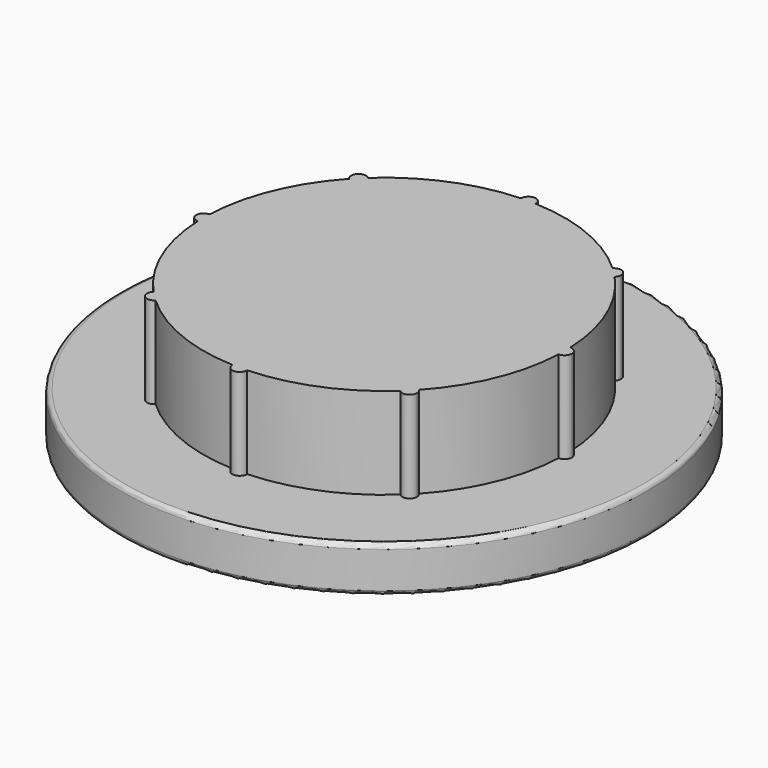
from build123d import *

# Parameters (mm, degrees)
F0_R     = 5.7752276128
F1_DEPTH = 1
F2_DEPTH = 2
F3_R     = 0.1


with BuildPart() as f1:
    # F0 (on Top) → F1 (new body)
    with BuildSketch(Plane.XY):
        Circle(F0_R)
        with BuildLine():
            ThreePointArc((2.9033493644, 2.6770525323), (3.6485695105, 1.5112869745), (3.9459400229, 0.1600160246))
            ThreePointArc((3.9459400229, 0.1600160246), (4.061202336, 0.114312532), (4.1092320673, 0))
            ThreePointArc((4.1092320673, 0), (4.061202336, -0.114312532), (3.9459400229, -0.1600160246))
            ThreePointArc((3.9459400229, -0.1600160246), (3.6485695105, -1.5112869745), (2.9033493644, -2.6770525323))
            ThreePointArc((2.9033493644, -2.6770525323), (2.9397319242, -2.7297510734), (2.9525430939, -2.792494207))
            ThreePointArc((2.9525430939, -2.792494207), (2.8522409, -2.9409730906), (2.6770525323, -2.9033493644))
            ThreePointArc((2.6770525323, -2.9033493644), (1.5112869745, -3.6485695105), (0.1600160246, -3.9459400229))
            ThreePointArc((0.1600160246, -3.9459400229), (0.1600406711, -3.9475615184), (0.1600488869, -3.9491831804))
            ThreePointArc((0.1600488869, -3.9491831804), (-0.001621662, -4.1092238515), (-0.1600160246, -3.9459400229))
            ThreePointArc((-0.1600160246, -3.9459400229), (-1.5112869745, -3.6485695105), (-2.6770525323, -2.9033493644))
            ThreePointArc((-2.6770525323, -2.9033493644), (-2.9056658603, -2.9056658603), (-2.9033493644, -2.6770525323))
            ThreePointArc((-2.9033493644, -2.6770525323), (-3.6485695105, -1.5112869745), (-3.9459400229, -0.1600160246))
            ThreePointArc((-3.9459400229, -0.1600160246), (-4.1092320673, 0), (-3.9459400229, 0.1600160246))
            ThreePointArc((-3.9459400229, 0.1600160246), (-3.6485695105, 1.5112869745), (-2.9033493644, 2.6770525323))
            ThreePointArc((-2.9033493644, 2.6770525323), (-2.9056658603, 2.9056658603), (-2.6770525323, 2.9033493644))
            ThreePointArc((-2.6770525323, 2.9033493644), (-1.5112869745, 3.6485695105), (-0.1600160246, 3.9459400229))
            ThreePointArc((-0.1600160246, 3.9459400229), (-0.001621662, 4.1092238515), (0.1600488869, 3.9491831804))
            ThreePointArc((0.1600488869, 3.9491831804), (0.1600406711, 3.9475615184), (0.1600160246, 3.9459400229))
            ThreePointArc((0.1600160246, 3.9459400229), (1.5112869745, 3.6485695105), (2.6770525323, 2.9033493644))
            ThreePointArc((2.6770525323, 2.9033493644), (2.8522409, 2.9409730906), (2.9525430939, 2.792494207))
            ThreePointArc((2.9525430939, 2.792494207), (2.9397319242, 2.7297510734), (2.9033493644, 2.6770525323))
        make_face(mode=Mode.SUBTRACT)
        with BuildLine():
            ThreePointArc((3.9459400229, -0.1600160246), (3.7891342935, 0), (3.9459400229, 0.1600160246))
            ThreePointArc((3.9459400229, 0.1600160246), (3.6485695105, 1.5112869745), (2.9033493644, 2.6770525323))
            ThreePointArc((2.9033493644, 2.6770525323), (2.6793225538, 2.6793225538), (2.6770525323, 2.9033493644))
            ThreePointArc((2.6770525323, 2.9033493644), (1.5112869745, 3.6485695105), (0.1600160246, 3.9459400229))
            ThreePointArc((0.1600160246, 3.9459400229), (0, 3.7891342935), (-0.1600160246, 3.9459400229))
            ThreePointArc((-0.1600160246, 3.9459400229), (-1.5112869745, 3.6485695105), (-2.6770525323, 2.9033493644))
            ThreePointArc((-2.6770525323, 2.9033493644), (-2.6440153234, 2.8522409), (-2.6324453201, 2.792494207))
            ThreePointArc((-2.6324453201, 2.792494207), (-2.7297510734, 2.6452564898), (-2.9033493644, 2.6770525323))
            ThreePointArc((-2.9033493644, 2.6770525323), (-3.6485695105, 1.5112869745), (-3.9459400229, 0.1600160246))
            ThreePointArc((-3.9459400229, 0.1600160246), (-3.8348706484, 0.1120191556), (-3.7891342935, 0))
            ThreePointArc((-3.7891342935, 0), (-3.8348706484, -0.1120191556), (-3.9459400229, -0.1600160246))
            ThreePointArc((-3.9459400229, -0.1600160246), (-3.6485695105, -1.5112869745), (-2.9033493644, -2.6770525323))
            ThreePointArc((-2.9033493644, -2.6770525323), (-2.7297510734, -2.6452564898), (-2.6324453201, -2.792494207))
            ThreePointArc((-2.6324453201, -2.792494207), (-2.6440153234, -2.8522409), (-2.6770525323, -2.9033493644))
            ThreePointArc((-2.6770525323, -2.9033493644), (-1.5112869745, -3.6485695105), (-0.1600160246, -3.9459400229))
            ThreePointArc((-0.1600160246, -3.9459400229), (0, -3.7891342935), (0.1600160246, -3.9459400229))
            ThreePointArc((0.1600160246, -3.9459400229), (1.5112869745, -3.6485695105), (2.6770525323, -2.9033493644))
            ThreePointArc((2.6770525323, -2.9033493644), (2.6793225538, -2.6793225538), (2.9033493644, -2.6770525323))
            ThreePointArc((2.9033493644, -2.6770525323), (3.6485695105, -1.5112869745), (3.9459400229, -0.1600160246))
        make_face()
        with BuildLine():
            ThreePointArc((-3.9459400229, -0.1600160246), (-3.9491831804, 0), (-3.9459400229, 0.1600160246))
            ThreePointArc((-3.9459400229, 0.1600160246), (-4.1092320673, 0), (-3.9459400229, -0.1600160246))
        make_face()
        with BuildLine():
            ThreePointArc((-2.9033493644, -2.6770525323), (-2.9056658603, -2.9056658603), (-2.6770525323, -2.9033493644))
            ThreePointArc((-2.6770525323, -2.9033493644), (-2.792494207, -2.792494207), (-2.9033493644, -2.6770525323))
        make_face()
        with BuildLine():
            ThreePointArc((-2.9033493644, 2.6770525323), (-2.792494207, 2.792494207), (-2.6770525323, 2.9033493644))
            ThreePointArc((-2.6770525323, 2.9033493644), (-2.9056658603, 2.9056658603), (-2.9033493644, 2.6770525323))
        make_face()
        with BuildLine():
            ThreePointArc((3.9459400229, 0.1600160246), (3.9483723078, 0.0800244434), (3.9491831804, 0))
            ThreePointArc((3.9491831804, 0), (3.9483723078, -0.0800244434), (3.9459400229, -0.1600160246))
            ThreePointArc((3.9459400229, -0.1600160246), (4.061202336, -0.114312532), (4.1092320673, 0))
            ThreePointArc((4.1092320673, 0), (4.061202336, 0.114312532), (3.9459400229, 0.1600160246))
        make_face()
        with BuildLine():
            ThreePointArc((2.9525430939, -2.792494207), (2.9397319242, -2.7297510734), (2.9033493644, -2.6770525323))
            ThreePointArc((2.9033493644, -2.6770525323), (2.792494207, -2.792494207), (2.6770525323, -2.9033493644))
            ThreePointArc((2.6770525323, -2.9033493644), (2.8522409, -2.9409730906), (2.9525430939, -2.792494207))
        make_face()
        with BuildLine():
            ThreePointArc((0.1600488869, -3.9491831804), (0.1600406711, -3.9475615184), (0.1600160246, -3.9459400229))
            ThreePointArc((0.1600160246, -3.9459400229), (0, -3.9491831804), (-0.1600160246, -3.9459400229))
            ThreePointArc((-0.1600160246, -3.9459400229), (-0.001621662, -4.1092238515), (0.1600488869, -3.9491831804))
        make_face()
        with BuildLine():
            ThreePointArc((2.6770525323, 2.9033493644), (2.792494207, 2.792494207), (2.9033493644, 2.6770525323))
            ThreePointArc((2.9033493644, 2.6770525323), (2.9397319242, 2.7297510734), (2.9525430939, 2.792494207))
            ThreePointArc((2.9525430939, 2.792494207), (2.8522409, 2.9409730906), (2.6770525323, 2.9033493644))
        make_face()
        with BuildLine():
            ThreePointArc((-0.1600160246, 3.9459400229), (0, 3.9491831804), (0.1600160246, 3.9459400229))
            ThreePointArc((0.1600160246, 3.9459400229), (0.1600406711, 3.9475615184), (0.1600488869, 3.9491831804))
            ThreePointArc((0.1600488869, 3.9491831804), (-0.001621662, 4.1092238515), (-0.1600160246, 3.9459400229))
        make_face()
        with BuildLine():
            ThreePointArc((-3.7891342935, 0), (-3.8348706484, 0.1120191556), (-3.9459400229, 0.1600160246))
            ThreePointArc((-3.9459400229, 0.1600160246), (-3.9491831804, 0), (-3.9459400229, -0.1600160246))
            ThreePointArc((-3.9459400229, -0.1600160246), (-3.8348706484, -0.1120191556), (-3.7891342935, 0))
        make_face()
        with BuildLine():
            ThreePointArc((-2.9033493644, -2.6770525323), (-2.792494207, -2.792494207), (-2.6770525323, -2.9033493644))
            ThreePointArc((-2.6770525323, -2.9033493644), (-2.6440153234, -2.8522409), (-2.6324453201, -2.792494207))
            ThreePointArc((-2.6324453201, -2.792494207), (-2.7297510734, -2.6452564898), (-2.9033493644, -2.6770525323))
        make_face()
        with BuildLine():
            ThreePointArc((-2.6324453201, 2.792494207), (-2.6440153234, 2.8522409), (-2.6770525323, 2.9033493644))
            ThreePointArc((-2.6770525323, 2.9033493644), (-2.792494207, 2.792494207), (-2.9033493644, 2.6770525323))
            ThreePointArc((-2.9033493644, 2.6770525323), (-2.7297510734, 2.6452564898), (-2.6324453201, 2.792494207))
        make_face()
        with BuildLine():
            ThreePointArc((3.9459400229, -0.1600160246), (3.9483723078, -0.0800244434), (3.9491831804, 0))
            ThreePointArc((3.9491831804, 0), (3.9483723078, 0.0800244434), (3.9459400229, 0.1600160246))
            ThreePointArc((3.9459400229, 0.1600160246), (3.7891342935, 0), (3.9459400229, -0.1600160246))
        make_face()
        with BuildLine():
            ThreePointArc((2.6770525323, -2.9033493644), (2.792494207, -2.792494207), (2.9033493644, -2.6770525323))
            ThreePointArc((2.9033493644, -2.6770525323), (2.6793225538, -2.6793225538), (2.6770525323, -2.9033493644))
        make_face()
        with BuildLine():
            ThreePointArc((-0.1600160246, -3.9459400229), (0, -3.9491831804), (0.1600160246, -3.9459400229))
            ThreePointArc((0.1600160246, -3.9459400229), (0, -3.7891342935), (-0.1600160246, -3.9459400229))
        make_face()
        with BuildLine():
            ThreePointArc((2.6770525323, 2.9033493644), (2.6793225538, 2.6793225538), (2.9033493644, 2.6770525323))
            ThreePointArc((2.9033493644, 2.6770525323), (2.792494207, 2.792494207), (2.6770525323, 2.9033493644))
        make_face()
        with BuildLine():
            ThreePointArc((-0.1600160246, 3.9459400229), (0, 3.7891342935), (0.1600160246, 3.9459400229))
            ThreePointArc((0.1600160246, 3.9459400229), (0, 3.9491831804), (-0.1600160246, 3.9459400229))
        make_face()
    extrude(amount=-F1_DEPTH)

    # F0 (on Top) → F2 (join)
    with BuildSketch(Plane.XY):
        with BuildLine():
            ThreePointArc((3.9459400229, -0.1600160246), (3.7891342935, 0), (3.9459400229, 0.1600160246))
            ThreePointArc((3.9459400229, 0.1600160246), (3.6485695105, 1.5112869745), (2.9033493644, 2.6770525323))
            ThreePointArc((2.9033493644, 2.6770525323), (2.6793225538, 2.6793225538), (2.6770525323, 2.9033493644))
            ThreePointArc((2.6770525323, 2.9033493644), (1.5112869745, 3.6485695105), (0.1600160246, 3.9459400229))
            ThreePointArc((0.1600160246, 3.9459400229), (0, 3.7891342935), (-0.1600160246, 3.9459400229))
            ThreePointArc((-0.1600160246, 3.9459400229), (-1.5112869745, 3.6485695105), (-2.6770525323, 2.9033493644))
            ThreePointArc((-2.6770525323, 2.9033493644), (-2.6440153234, 2.8522409), (-2.6324453201, 2.792494207))
            ThreePointArc((-2.6324453201, 2.792494207), (-2.7297510734, 2.6452564898), (-2.9033493644, 2.6770525323))
            ThreePointArc((-2.9033493644, 2.6770525323), (-3.6485695105, 1.5112869745), (-3.9459400229, 0.1600160246))
            ThreePointArc((-3.9459400229, 0.1600160246), (-3.8348706484, 0.1120191556), (-3.7891342935, 0))
            ThreePointArc((-3.7891342935, 0), (-3.8348706484, -0.1120191556), (-3.9459400229, -0.1600160246))
            ThreePointArc((-3.9459400229, -0.1600160246), (-3.6485695105, -1.5112869745), (-2.9033493644, -2.6770525323))
            ThreePointArc((-2.9033493644, -2.6770525323), (-2.7297510734, -2.6452564898), (-2.6324453201, -2.792494207))
            ThreePointArc((-2.6324453201, -2.792494207), (-2.6440153234, -2.8522409), (-2.6770525323, -2.9033493644))
            ThreePointArc((-2.6770525323, -2.9033493644), (-1.5112869745, -3.6485695105), (-0.1600160246, -3.9459400229))
            ThreePointArc((-0.1600160246, -3.9459400229), (0, -3.7891342935), (0.1600160246, -3.9459400229))
            ThreePointArc((0.1600160246, -3.9459400229), (1.5112869745, -3.6485695105), (2.6770525323, -2.9033493644))
            ThreePointArc((2.6770525323, -2.9033493644), (2.6793225538, -2.6793225538), (2.9033493644, -2.6770525323))
            ThreePointArc((2.9033493644, -2.6770525323), (3.6485695105, -1.5112869745), (3.9459400229, -0.1600160246))
        make_face()
        with BuildLine():
            ThreePointArc((-2.6324453201, 2.792494207), (-2.6440153234, 2.8522409), (-2.6770525323, 2.9033493644))
            ThreePointArc((-2.6770525323, 2.9033493644), (-2.792494207, 2.792494207), (-2.9033493644, 2.6770525323))
            ThreePointArc((-2.9033493644, 2.6770525323), (-2.7297510734, 2.6452564898), (-2.6324453201, 2.792494207))
        make_face()
        with BuildLine():
            ThreePointArc((-2.9033493644, 2.6770525323), (-2.792494207, 2.792494207), (-2.6770525323, 2.9033493644))
            ThreePointArc((-2.6770525323, 2.9033493644), (-2.9056658603, 2.9056658603), (-2.9033493644, 2.6770525323))
        make_face()
        with BuildLine():
            ThreePointArc((-3.9459400229, -0.1600160246), (-3.9491831804, 0), (-3.9459400229, 0.1600160246))
            ThreePointArc((-3.9459400229, 0.1600160246), (-4.1092320673, 0), (-3.9459400229, -0.1600160246))
        make_face()
        with BuildLine():
            ThreePointArc((-3.7891342935, 0), (-3.8348706484, 0.1120191556), (-3.9459400229, 0.1600160246))
            ThreePointArc((-3.9459400229, 0.1600160246), (-3.9491831804, 0), (-3.9459400229, -0.1600160246))
            ThreePointArc((-3.9459400229, -0.1600160246), (-3.8348706484, -0.1120191556), (-3.7891342935, 0))
        make_face()
        with BuildLine():
            ThreePointArc((-2.9033493644, -2.6770525323), (-2.9056658603, -2.9056658603), (-2.6770525323, -2.9033493644))
            ThreePointArc((-2.6770525323, -2.9033493644), (-2.792494207, -2.792494207), (-2.9033493644, -2.6770525323))
        make_face()
        with BuildLine():
            ThreePointArc((-2.9033493644, -2.6770525323), (-2.792494207, -2.792494207), (-2.6770525323, -2.9033493644))
            ThreePointArc((-2.6770525323, -2.9033493644), (-2.6440153234, -2.8522409), (-2.6324453201, -2.792494207))
            ThreePointArc((-2.6324453201, -2.792494207), (-2.7297510734, -2.6452564898), (-2.9033493644, -2.6770525323))
        make_face()
        with BuildLine():
            ThreePointArc((0.1600488869, -3.9491831804), (0.1600406711, -3.9475615184), (0.1600160246, -3.9459400229))
            ThreePointArc((0.1600160246, -3.9459400229), (0, -3.9491831804), (-0.1600160246, -3.9459400229))
            ThreePointArc((-0.1600160246, -3.9459400229), (-0.001621662, -4.1092238515), (0.1600488869, -3.9491831804))
        make_face()
        with BuildLine():
            ThreePointArc((-0.1600160246, -3.9459400229), (0, -3.9491831804), (0.1600160246, -3.9459400229))
            ThreePointArc((0.1600160246, -3.9459400229), (0, -3.7891342935), (-0.1600160246, -3.9459400229))
        make_face()
        with BuildLine():
            ThreePointArc((2.9525430939, -2.792494207), (2.9397319242, -2.7297510734), (2.9033493644, -2.6770525323))
            ThreePointArc((2.9033493644, -2.6770525323), (2.792494207, -2.792494207), (2.6770525323, -2.9033493644))
            ThreePointArc((2.6770525323, -2.9033493644), (2.8522409, -2.9409730906), (2.9525430939, -2.792494207))
        make_face()
        with BuildLine():
            ThreePointArc((2.6770525323, -2.9033493644), (2.792494207, -2.792494207), (2.9033493644, -2.6770525323))
            ThreePointArc((2.9033493644, -2.6770525323), (2.6793225538, -2.6793225538), (2.6770525323, -2.9033493644))
        make_face()
        with BuildLine():
            ThreePointArc((3.9459400229, -0.1600160246), (3.9483723078, -0.0800244434), (3.9491831804, 0))
            ThreePointArc((3.9491831804, 0), (3.9483723078, 0.0800244434), (3.9459400229, 0.1600160246))
            ThreePointArc((3.9459400229, 0.1600160246), (3.7891342935, 0), (3.9459400229, -0.1600160246))
        make_face()
        with BuildLine():
            ThreePointArc((3.9459400229, 0.1600160246), (3.9483723078, 0.0800244434), (3.9491831804, 0))
            ThreePointArc((3.9491831804, 0), (3.9483723078, -0.0800244434), (3.9459400229, -0.1600160246))
            ThreePointArc((3.9459400229, -0.1600160246), (4.061202336, -0.114312532), (4.1092320673, 0))
            ThreePointArc((4.1092320673, 0), (4.061202336, 0.114312532), (3.9459400229, 0.1600160246))
        make_face()
        with BuildLine():
            ThreePointArc((-0.1600160246, 3.9459400229), (0, 3.9491831804), (0.1600160246, 3.9459400229))
            ThreePointArc((0.1600160246, 3.9459400229), (0.1600406711, 3.9475615184), (0.1600488869, 3.9491831804))
            ThreePointArc((0.1600488869, 3.9491831804), (-0.001621662, 4.1092238515), (-0.1600160246, 3.9459400229))
        make_face()
        with BuildLine():
            ThreePointArc((-0.1600160246, 3.9459400229), (0, 3.7891342935), (0.1600160246, 3.9459400229))
            ThreePointArc((0.1600160246, 3.9459400229), (0, 3.9491831804), (-0.1600160246, 3.9459400229))
        make_face()
        with BuildLine():
            ThreePointArc((2.6770525323, 2.9033493644), (2.6793225538, 2.6793225538), (2.9033493644, 2.6770525323))
            ThreePointArc((2.9033493644, 2.6770525323), (2.792494207, 2.792494207), (2.6770525323, 2.9033493644))
        make_face()
        with BuildLine():
            ThreePointArc((2.6770525323, 2.9033493644), (2.792494207, 2.792494207), (2.9033493644, 2.6770525323))
            ThreePointArc((2.9033493644, 2.6770525323), (2.9397319242, 2.7297510734), (2.9525430939, 2.792494207))
            ThreePointArc((2.9525430939, 2.792494207), (2.8522409, 2.9409730906), (2.6770525323, 2.9033493644))
        make_face()
    extrude(amount=F2_DEPTH)

    # F3
    f3_edges = [f1.edges().sort_by_distance(p)[0] for p in [
        (-5.775228, 0, -1),
        (-5.775228, 0, 0),
    ]]
    fillet(f3_edges, radius=F3_R)


solid = f1.part
